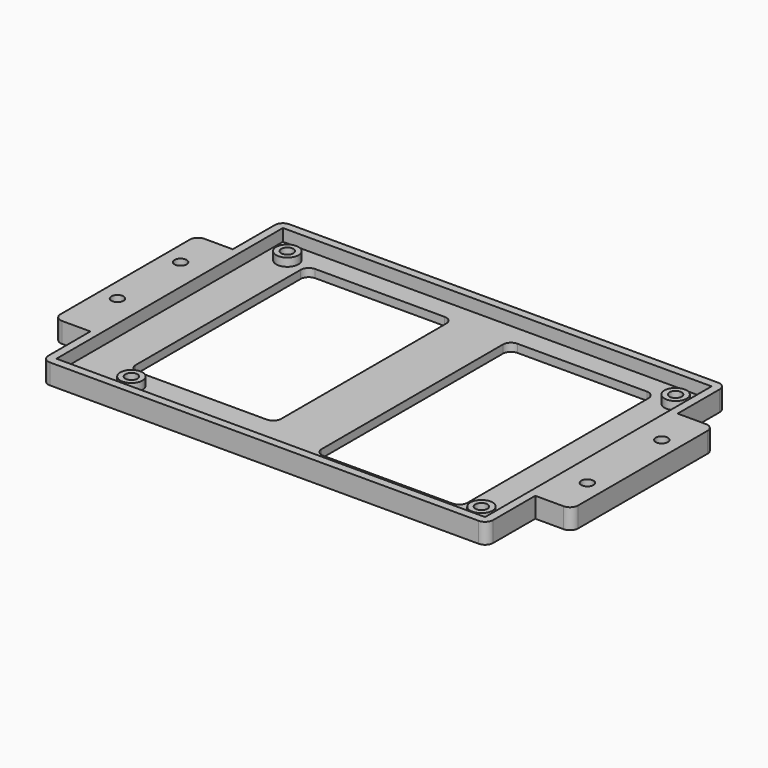
from build123d import *

# Parameters (mm, degrees)
F0_W     = 106
F0_H     = 70
F0_R     = 2.75
F1_DEPTH = 2
F0_R_2   = 1.5
F2_DEPTH = 4
F0_W_2   = 9
F0_H_2   = 44
F3_DEPTH = 5
F4_R     = 2
F6_DEPTH = 2


with BuildPart() as f1:
    # F0 (on Top) → F1 (new body)
    with BuildSketch(Plane.XY):
        with Locations((-0.241208, 2.403659)):
            Rectangle(F0_W, F0_H)
        with Locations((-38.491208, -27.846341)):
            Circle(F0_R, mode=Mode.SUBTRACT)
        with Locations((48.258792, -28.096341)):
            Circle(F0_R, mode=Mode.SUBTRACT)
        with Locations((-47.741208, 31.903659)):
            Circle(F0_R, mode=Mode.SUBTRACT)
        with Locations((48.258792, 31.903659)):
            Circle(F0_R, mode=Mode.SUBTRACT)
    extrude(amount=F1_DEPTH)

    # F0 (on Top) → F2 (join)
    with BuildSketch(Plane.XY):
        with Locations((-47.741208, 31.903659)):
            Circle(F0_R)
        with Locations((-47.741208, 31.903659)):
            Circle(F0_R_2, mode=Mode.SUBTRACT)
        with Locations((-38.491208, -27.846341)):
            Circle(F0_R)
        with Locations((-38.491208, -27.846341)):
            Circle(F0_R_2, mode=Mode.SUBTRACT)
        with Locations((48.258792, -28.096341)):
            Circle(F0_R)
        with Locations((48.258792, -28.096341)):
            Circle(F0_R_2, mode=Mode.SUBTRACT)
        with Locations((48.258792, 31.903659)):
            Circle(F0_R)
        with Locations((48.258792, 31.903659)):
            Circle(F0_R_2, mode=Mode.SUBTRACT)
    extrude(amount=F2_DEPTH)

    # F0 (on Top) → F3 (join)
    with BuildSketch(Plane.XY):
        with Locations((-59.741208, 2.403659)):
            Rectangle(F0_W_2, F0_H_2)
        with Locations((-59.741208, -5.596341)):
            Circle(F0_R_2, mode=Mode.SUBTRACT)
        with Locations((-59.741208, 13.903659)):
            Circle(F0_R_2, mode=Mode.SUBTRACT)
        with BuildLine():
            ThreePointArc((-53.241208, 39.403659), (-54.655421, 38.817872), (-55.241208, 37.403659))
            Line((-55.241208, 37.403659), (-55.241208, 24.403659))
            Line((-55.241208, 24.403659), (-55.241208, -19.596341))
            Line((-55.241208, -19.596341), (-55.241208, -32.596341))
            ThreePointArc((-55.241208, -32.596341), (-54.655421, -34.010555), (-53.241208, -34.596341))
            Line((-53.241208, -34.596341), (52.758792, -34.596341))
            ThreePointArc((52.758792, -34.596341), (54.173006, -34.010555), (54.758792, -32.596341))
            Line((54.758792, -32.596341), (54.758792, -19.596341))
            Line((54.758792, -19.596341), (54.758792, 24.403659))
            Line((54.758792, 24.403659), (54.758792, 37.403659))
            ThreePointArc((54.758792, 37.403659), (54.173006, 38.817872), (52.758792, 39.403659))
            Line((52.758792, 39.403659), (-53.241208, 39.403659))
        make_face()
        with Locations((-0.241208, 2.403659)):
            Rectangle(F0_W, F0_H, mode=Mode.SUBTRACT)
        with Locations((59.258792, 2.403659)):
            Rectangle(F0_W_2, F0_H_2)
        with Locations((59.258792, -9.096341)):
            Circle(F0_R_2, mode=Mode.SUBTRACT)
        with Locations((59.258792, 13.903659)):
            Circle(F0_R_2, mode=Mode.SUBTRACT)
    extrude(amount=F3_DEPTH)

    # F4
    f4_edges = [f1.edges().sort_by_distance(p)[0] for p in [
        (-64.241208, 24.403659, 2.5),
        (-64.241208, -19.596341, 2.5),
        (63.758792, -19.596341, 2.5),
        (63.758792, 24.403659, 2.5),
    ]]
    fillet(f4_edges, radius=F4_R)

    # F5 (on face) → F6 (cut)
    with BuildSketch(Plane.XY.offset(2)):
        with BuildLine():
            Line((8.758792, -27.596341), (40.758792, -27.596341))
            ThreePointArc((40.758792, -27.596341), (42.173006, -27.010555), (42.758792, -25.596341))
            Line((42.758792, -25.596341), (42.758792, 30.403659))
            ThreePointArc((42.758792, 30.403659), (42.173006, 31.817872), (40.758792, 32.403659))
            Line((40.758792, 32.403659), (8.758792, 32.403659))
            ThreePointArc((8.758792, 32.403659), (7.344579, 31.817872), (6.758792, 30.403659))
            Line((6.758792, 30.403659), (6.758792, -25.596341))
            ThreePointArc((6.758792, -25.596341), (7.344579, -27.010555), (8.758792, -27.596341))
        make_face()
        with BuildLine():
            Line((-41.241208, -22.596341), (-9.241208, -22.596341))
            ThreePointArc((-9.241208, -22.596341), (-7.826994, -22.010555), (-7.241208, -20.596341))
            Line((-7.241208, -20.596341), (-7.241208, 30.403659))
            ThreePointArc((-7.241208, 30.403659), (-7.826994, 31.817872), (-9.241208, 32.403659))
            Line((-9.241208, 32.403659), (-41.241208, 32.403659))
            ThreePointArc((-41.241208, 32.403659), (-42.655421, 31.817872), (-43.241208, 30.403659))
            Line((-43.241208, 30.403659), (-43.241208, -20.596341))
            ThreePointArc((-43.241208, -20.596341), (-42.655421, -22.010555), (-41.241208, -22.596341))
        make_face()
    extrude(amount=-F6_DEPTH, mode=Mode.SUBTRACT)


solid = f1.part
